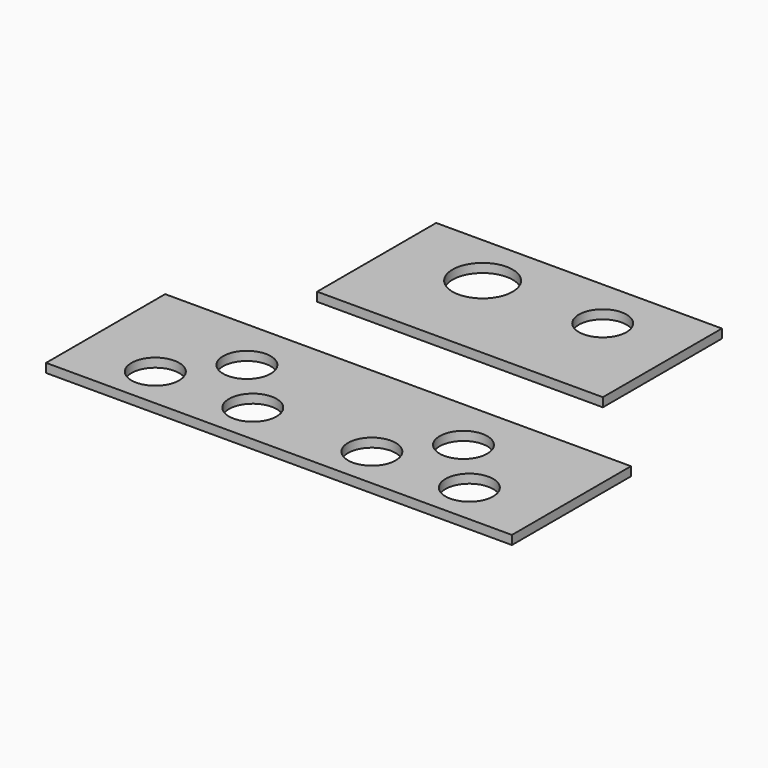
from build123d import *

# Parameters (mm, degrees)
SKETCH_W      = 156.5
SKETCH_H      = 50
SKETCH_R      = 8
PAD_DEPTH     = 3
SKETCH001_W   = 96
SKETCH001_H   = 50
SKETCH001_R   = 10.1
SKETCH001_R_2 = 8
PAD001_DEPTH  = 3


with BuildPart() as front:
    # Sketch → Pad (new body)
    with BuildSketch(Plane.XY):
        Rectangle(SKETCH_W, SKETCH_H)
        with Locations((-52.75, -11)):
            Circle(SKETCH_R, mode=Mode.SUBTRACT)
        with Locations((-36.375, 7)):
            Circle(SKETCH_R, mode=Mode.SUBTRACT)
        with Locations((20, -11)):
            Circle(SKETCH_R, mode=Mode.SUBTRACT)
        with Locations((-20, -11)):
            Circle(SKETCH_R, mode=Mode.SUBTRACT)
        with Locations((52.75, -11)):
            Circle(SKETCH_R, mode=Mode.SUBTRACT)
        with Locations((36.375, 7)):
            Circle(SKETCH_R, mode=Mode.SUBTRACT)
    extrude(amount=PAD_DEPTH)


with BuildPart() as right:
    # Sketch001 → Pad001 (new body)
    with BuildSketch(Plane.XY):
        Rectangle(SKETCH001_W, SKETCH001_H)
        with Locations((-18, 7)):
            Circle(SKETCH001_R, mode=Mode.SUBTRACT)
        with Locations((21.75, 7.75)):
            Circle(SKETCH001_R_2, mode=Mode.SUBTRACT)
    extrude(amount=PAD001_DEPTH)


with BuildPart() as right_1:
    # Body001 placement: moved
    add(right.part.moved(Location((0, 76, 0))))


solid = Compound([front.part, right_1.part])
